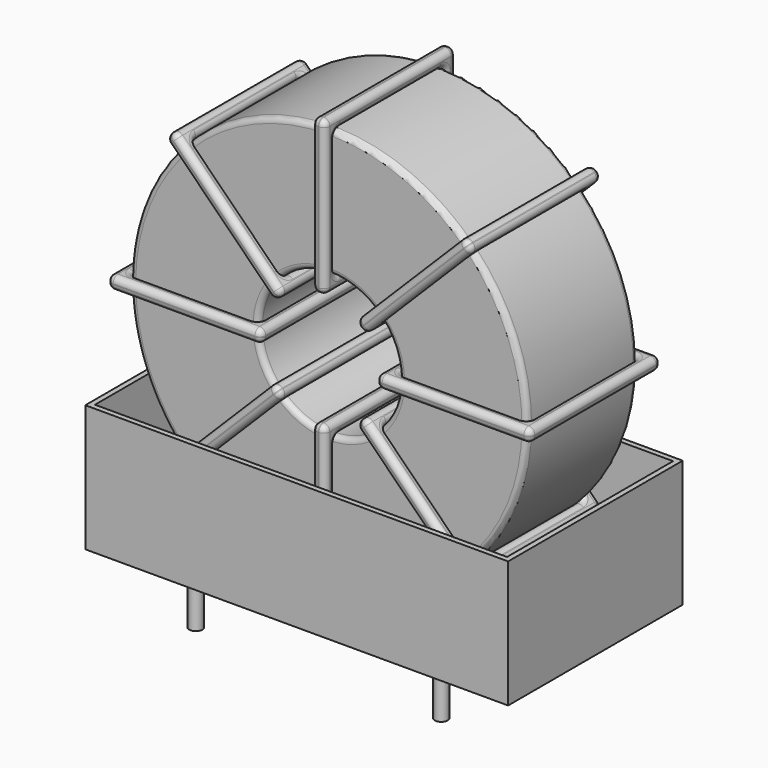
from build123d import *

# Parameters (mm, degrees)
SKETCH001_R   = 0.6
PAD001_DEPTH  = 5
SKETCH_R      = 18.485
SKETCH_R_2    = 6.561667
PAD_DEPTH     = 6.42
FILLET_R      = 0.5
SKETCH003_W   = 14.323333
SKETCH003_H   = 15.24
SKETCH003_W_2 = 11.923333
SKETCH003_H_2 = 12.84
PAD002_DEPTH  = 0.6
FILLET001_R   = 0.564
SKETCH004_W   = 14.323333
SKETCH004_H   = 15.24
SKETCH004_W_2 = 11.923333
SKETCH004_H_2 = 12.84
PAD003_DEPTH  = 0.6
FILLET002_R   = 0.564
SKETCH005_W   = 14.323333
SKETCH005_H   = 15.24
SKETCH005_W_2 = 11.923333
SKETCH005_H_2 = 12.84
PAD004_DEPTH  = 0.6
FILLET003_R   = 0.564
SKETCH006_W   = 14.323333
SKETCH006_H   = 15.24
SKETCH006_W_2 = 11.923333
SKETCH006_H_2 = 12.84
PAD005_DEPTH  = 0.6
FILLET004_R   = 0.564
SKETCH007_W   = 39.37
SKETCH007_H   = 20.32
PAD006_DEPTH  = 0.5
SKETCH008_W   = 39.37
SKETCH008_H   = 20.32
SKETCH008_W_2 = 38.37
SKETCH008_H_2 = 19.32
PAD007_DEPTH  = 11.811


with BuildPart() as pad001:
    # Sketch001 → Pad001 (new body)
    with BuildSketch(Plane.XY.offset(0.75)):
        Circle(SKETCH001_R)
        with Locations((22.86, -15.24)):
            Circle(SKETCH001_R)
        with Locations((0, -15.24)):
            Circle(SKETCH001_R)
        with Locations((22.86, 0)):
            Circle(SKETCH001_R)
    extrude(amount=-PAD001_DEPTH)


with BuildPart() as fillet_body:
    # Sketch → Pad (new body, symmetric)
    with BuildSketch(Plane(origin=(11.43, -7.62, 0), x_dir=(1, 0, 0), z_dir=(0, -1, 0))):
        with Locations((0, 21.385)):
            Circle(SKETCH_R)
        with Locations((0, 21.385)):
            Circle(SKETCH_R_2, mode=Mode.SUBTRACT)
    extrude(amount=PAD_DEPTH, both=True)

    # Fillet
    fillet_edges = [fillet_body.edges().sort_by_distance(p)[0] for p in [
        (4.868333, -14.04, 21.385),
        (-7.055, -14.04, 21.385),
        (-7.055, -1.2, 21.385),
    ]]
    fillet(fillet_edges, radius=FILLET_R)


with BuildPart() as fillet001:
    # Sketch003 → Pad002 (new body, symmetric)
    with BuildSketch(Plane(origin=(11.43, 0, 21.385), x_dir=(1, 0, 0), z_dir=(0, 0, -1))):
        with Locations((-12.523333, 7.62)):
            Rectangle(SKETCH003_W, SKETCH003_H)
        with Locations((-12.523333, 7.62)):
            Rectangle(SKETCH003_W_2, SKETCH003_H_2, mode=Mode.SUBTRACT)
        with Locations((12.523333, 7.62)):
            Rectangle(SKETCH003_W, SKETCH003_H)
        with Locations((12.523333, 7.62)):
            Rectangle(SKETCH003_W_2, SKETCH003_H_2, mode=Mode.SUBTRACT)
    extrude(amount=PAD002_DEPTH, both=True)

    # Fillet001
    fillet001_edges = [fillet001.edges().sort_by_distance(p)[0] for p in [
        (4.868333, -14.04, 21.385),
        (4.868333, -1.2, 21.385),
        (4.868333, -7.62, 21.985),
        (4.868333, -7.62, 20.785),
        (-8.255, -15.24, 21.385),
        (6.068333, -15.24, 21.385),
        (-1.093333, -15.24, 21.985),
        (-1.093333, -15.24, 20.785),
        (6.068333, 0, 21.385),
        (6.068333, -7.62, 21.985),
        (6.068333, -7.62, 20.785),
        (17.991667, -14.04, 21.385),
        (29.915, -14.04, 21.385),
        (23.953333, -14.04, 21.985),
        (23.953333, -14.04, 20.785),
        (29.915, -1.2, 21.385),
        (29.915, -7.62, 21.985),
        (29.915, -7.62, 20.785),
        (16.791667, -15.24, 21.385),
        (31.115, -15.24, 21.385),
        (23.953333, -15.24, 21.985),
        (23.953333, -15.24, 20.785),
        (31.115, 0, 21.385),
        (31.115, -7.62, 21.985),
        (31.115, -7.62, 20.785),
        (-7.055, -14.04, 21.385),
        (-1.093333, -14.04, 21.985),
        (-1.093333, -14.04, 20.785),
        (17.991667, -1.2, 21.385),
        (17.991667, -7.62, 21.985),
        (17.991667, -7.62, 20.785),
        (23.953333, -1.2, 21.985),
        (23.953333, -1.2, 20.785),
        (16.791667, 0, 21.385),
        (23.953333, 0, 21.985),
        (23.953333, 0, 20.785),
        (16.791667, -7.62, 21.985),
        (16.791667, -7.62, 20.785),
        (-8.255, 0, 21.385),
        (-1.093333, 0, 21.985),
        (-1.093333, 0, 20.785),
        (-8.255, -7.62, 21.985),
        (-8.255, -7.62, 20.785),
        (-7.055, -1.2, 21.385),
        (-7.055, -7.62, 21.985),
        (-7.055, -7.62, 20.785),
        (-1.093333, -1.2, 21.985),
        (-1.093333, -1.2, 20.785),
    ]]
    fillet(fillet001_edges, radius=FILLET001_R)


with BuildPart() as fillet002:
    # Sketch004 → Pad003 (new body, symmetric)
    with BuildSketch(Plane(origin=(11.43, 0, 21.385), x_dir=(0.707108, 0, 0.707106), z_dir=(0.707106, 0, -0.707108))):
        with Locations((-12.523333, 7.62)):
            Rectangle(SKETCH004_W, SKETCH004_H)
        with Locations((-12.523333, 7.62)):
            Rectangle(SKETCH004_W_2, SKETCH004_H_2, mode=Mode.SUBTRACT)
        with Locations((12.523333, 7.62)):
            Rectangle(SKETCH004_W, SKETCH004_H)
        with Locations((12.523333, 7.62)):
            Rectangle(SKETCH004_W_2, SKETCH004_H_2, mode=Mode.SUBTRACT)
    extrude(amount=PAD003_DEPTH, both=True)

    # Fillet002
    fillet002_edges = [fillet002.edges().sort_by_distance(p)[0] for p in [
        (6.790196, -14.04, 16.745206),
        (6.790196, -1.2, 16.745206),
        (6.365932, -7.62, 17.169471),
        (7.214459, -7.62, 16.320942),
        (-2.489413, -15.24, 7.465619),
        (7.638725, -15.24, 17.593734),
        (2.150392, -15.24, 12.953941),
        (2.998919, -15.24, 12.105412),
        (7.638725, 0, 17.593734),
        (7.214461, -7.62, 18.017998),
        (8.062988, -7.62, 17.169469),
        (16.069804, -14.04, 26.024794),
        (24.500884, -14.04, 34.455854),
        (19.861081, -14.04, 30.664588),
        (20.709608, -14.04, 29.816059),
        (24.500884, -1.2, 34.455854),
        (24.07662, -7.62, 34.880118),
        (24.925148, -7.62, 34.031589),
        (15.221275, -15.24, 25.176266),
        (25.349413, -15.24, 35.304381),
        (19.861081, -15.24, 30.664588),
        (20.709608, -15.24, 29.816059),
        (25.349413, 0, 35.304381),
        (24.92515, -7.62, 35.728645),
        (25.773677, -7.62, 34.880116),
        (-1.640884, -14.04, 8.314146),
        (2.150392, -14.04, 12.953941),
        (2.998919, -14.04, 12.105412),
        (16.069804, -1.2, 26.024794),
        (15.645541, -7.62, 26.449058),
        (16.494068, -7.62, 25.600529),
        (19.861081, -1.2, 30.664588),
        (20.709608, -1.2, 29.816059),
        (15.221275, 0, 25.176266),
        (19.861081, 0, 30.664588),
        (20.709608, 0, 29.816059),
        (14.797012, -7.62, 25.600531),
        (15.645539, -7.62, 24.752002),
        (-2.489413, 0, 7.465619),
        (2.150392, 0, 12.953941),
        (2.998919, 0, 12.105412),
        (-2.913677, -7.62, 7.889884),
        (-2.06515, -7.62, 7.041355),
        (-1.640884, -1.2, 8.314146),
        (-2.065148, -7.62, 8.738411),
        (-1.21662, -7.62, 7.889882),
        (2.150392, -1.2, 12.953941),
        (2.998919, -1.2, 12.105412),
    ]]
    fillet(fillet002_edges, radius=FILLET002_R)


with BuildPart() as fillet003:
    # Sketch005 → Pad004 (new body, symmetric)
    with BuildSketch(Plane(origin=(11.43, 0, 21.385), x_dir=(0.707108, 0, -0.707106), z_dir=(-0.707106, 0, -0.707108))):
        with Locations((-12.523333, 7.62)):
            Rectangle(SKETCH005_W, SKETCH005_H)
        with Locations((-12.523333, 7.62)):
            Rectangle(SKETCH005_W_2, SKETCH005_H_2, mode=Mode.SUBTRACT)
        with Locations((12.523333, 7.62)):
            Rectangle(SKETCH005_W, SKETCH005_H)
        with Locations((12.523333, 7.62)):
            Rectangle(SKETCH005_W_2, SKETCH005_H_2, mode=Mode.SUBTRACT)
    extrude(amount=PAD004_DEPTH, both=True)

    # Fillet003
    fillet003_edges = [fillet003.edges().sort_by_distance(p)[0] for p in [
        (-1.640884, -14.04, 34.455854),
        (6.790196, -1.2, 26.024794),
        (2.998919, -1.2, 30.664588),
        (2.150392, -1.2, 29.816059),
        (-2.489413, -15.24, 35.304381),
        (-2.489413, 0, 35.304381),
        (-2.06515, -7.62, 35.728645),
        (-2.913677, -7.62, 34.880116),
        (7.638725, -15.24, 25.176266),
        (2.998919, 0, 30.664588),
        (2.150392, 0, 29.816059),
        (16.069804, -14.04, 16.745206),
        (24.500884, -14.04, 8.314146),
        (20.709608, -14.04, 12.953941),
        (19.861081, -14.04, 12.105412),
        (24.500884, -1.2, 8.314146),
        (24.925148, -7.62, 8.738411),
        (24.07662, -7.62, 7.889882),
        (15.221275, -15.24, 17.593734),
        (25.349413, -15.24, 7.465619),
        (20.709608, -15.24, 12.953941),
        (19.861081, -15.24, 12.105412),
        (25.349413, 0, 7.465619),
        (25.773677, -7.62, 7.889884),
        (24.92515, -7.62, 7.041355),
        (-1.640884, -1.2, 34.455854),
        (-1.21662, -7.62, 34.880118),
        (-2.065148, -7.62, 34.031589),
        (16.069804, -1.2, 16.745206),
        (16.494068, -7.62, 17.169471),
        (15.645541, -7.62, 16.320942),
        (20.709608, -1.2, 12.953941),
        (19.861081, -1.2, 12.105412),
        (15.221275, 0, 17.593734),
        (20.709608, 0, 12.953941),
        (19.861081, 0, 12.105412),
        (15.645539, -7.62, 18.017998),
        (14.797012, -7.62, 17.169469),
        (7.638725, 0, 25.176266),
        (8.062988, -7.62, 25.600531),
        (7.214461, -7.62, 24.752002),
        (2.998919, -15.24, 30.664588),
        (2.150392, -15.24, 29.816059),
        (6.790196, -14.04, 26.024794),
        (2.998919, -14.04, 30.664588),
        (2.150392, -14.04, 29.816059),
        (7.214459, -7.62, 26.449058),
        (6.365932, -7.62, 25.600529),
    ]]
    fillet(fillet003_edges, radius=FILLET003_R)


with BuildPart() as fillet004:
    # Sketch006 → Pad005 (new body, symmetric)
    with BuildSketch(Plane(origin=(11.43, 0, 21.385), x_dir=(0, 0, 1), z_dir=(1, 0, 0))):
        with Locations((-12.523333, 7.62)):
            Rectangle(SKETCH006_W, SKETCH006_H)
        with Locations((-12.523333, 7.62)):
            Rectangle(SKETCH006_W_2, SKETCH006_H_2, mode=Mode.SUBTRACT)
        with Locations((12.523333, 7.62)):
            Rectangle(SKETCH006_W, SKETCH006_H)
        with Locations((12.523333, 7.62)):
            Rectangle(SKETCH006_W_2, SKETCH006_H_2, mode=Mode.SUBTRACT)
    extrude(amount=PAD005_DEPTH, both=True)

    # Fillet004
    fillet004_edges = [fillet004.edges().sort_by_distance(p)[0] for p in [
        (11.43, -14.04, 14.823333),
        (11.43, -1.2, 14.823333),
        (10.83, -7.62, 14.823333),
        (12.03, -7.62, 14.823333),
        (11.43, -15.24, 1.7),
        (11.43, -15.24, 16.023333),
        (10.83, -15.24, 8.861667),
        (12.03, -15.24, 8.861667),
        (11.43, 0, 16.023333),
        (10.83, -7.62, 16.023333),
        (12.03, -7.62, 16.023333),
        (11.43, -14.04, 27.946667),
        (11.43, -14.04, 39.87),
        (10.83, -14.04, 33.908333),
        (12.03, -14.04, 33.908333),
        (11.43, -1.2, 39.87),
        (10.83, -7.62, 39.87),
        (12.03, -7.62, 39.87),
        (11.43, -15.24, 26.746667),
        (11.43, -15.24, 41.07),
        (10.83, -15.24, 33.908333),
        (12.03, -15.24, 33.908333),
        (11.43, 0, 41.07),
        (10.83, -7.62, 41.07),
        (12.03, -7.62, 41.07),
        (11.43, -14.04, 2.9),
        (10.83, -14.04, 8.861667),
        (12.03, -14.04, 8.861667),
        (11.43, -1.2, 27.946667),
        (10.83, -7.62, 27.946667),
        (12.03, -7.62, 27.946667),
        (10.83, -1.2, 33.908333),
        (12.03, -1.2, 33.908333),
        (11.43, 0, 26.746667),
        (10.83, 0, 33.908333),
        (12.03, 0, 33.908333),
        (10.83, -7.62, 26.746667),
        (12.03, -7.62, 26.746667),
        (11.43, 0, 1.7),
        (10.83, 0, 8.861667),
        (12.03, 0, 8.861667),
        (10.83, -7.62, 1.7),
        (12.03, -7.62, 1.7),
        (11.43, -1.2, 2.9),
        (10.83, -7.62, 2.9),
        (12.03, -7.62, 2.9),
        (10.83, -1.2, 8.861667),
        (12.03, -1.2, 8.861667),
    ]]
    fillet(fillet004_edges, radius=FILLET004_R)


with BuildPart() as pad006:
    # Sketch007 → Pad006 (new body)
    with BuildSketch(Plane(origin=(11.43, 0, 0.5), x_dir=(1, 0, 0), z_dir=(0, 0, 1))):
        with Locations((0, -7.62)):
            Rectangle(SKETCH007_W, SKETCH007_H)
    extrude(amount=PAD006_DEPTH)


with BuildPart() as pad007:
    # Sketch008 → Pad007 (new body)
    with BuildSketch(Plane(origin=(11.43, 0, 0.5), x_dir=(1, 0, 0), z_dir=(0, 0, 1))):
        with Locations((0, -7.62)):
            Rectangle(SKETCH008_W, SKETCH008_H)
        with Locations((0, -7.62)):
            Rectangle(SKETCH008_W_2, SKETCH008_H_2, mode=Mode.SUBTRACT)
    extrude(amount=PAD007_DEPTH)


solid = Compound([pad001.part, fillet_body.part, fillet001.part, fillet002.part, fillet003.part, fillet004.part, pad006.part, pad007.part])
